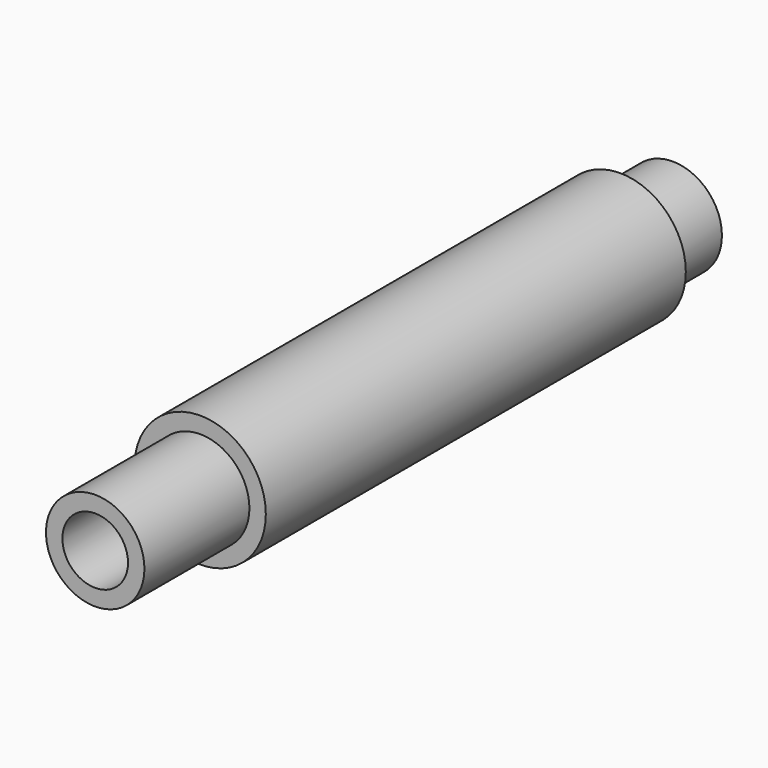
from build123d import *

# Parameters (mm, degrees)
F0_R     = 9.525
F0_R_2   = 6.35
F1_DEPTH = 12.7
F2_R     = 12.7
F3_DEPTH = 101.6
F4_R     = 9.525
F4_R_2   = 6.35
F5_DEPTH = 25.4


with BuildPart() as f1:
    # F0 (on Front) → F1 (new body)
    with BuildSketch(Plane.XZ):
        Circle(F0_R)
        Circle(F0_R_2, mode=Mode.SUBTRACT)
    extrude(amount=F1_DEPTH)

    # F2 (on face) → F3 (join)
    with BuildSketch(Plane.XZ.offset(12.7)):
        Circle(F2_R)
    extrude(amount=F3_DEPTH)

    # F4 (on face) → F5 (join)
    with BuildSketch(Plane.XZ.offset(114.3)):
        Circle(F4_R)
        Circle(F4_R_2, mode=Mode.SUBTRACT)
    extrude(amount=F5_DEPTH)


solid = f1.part
